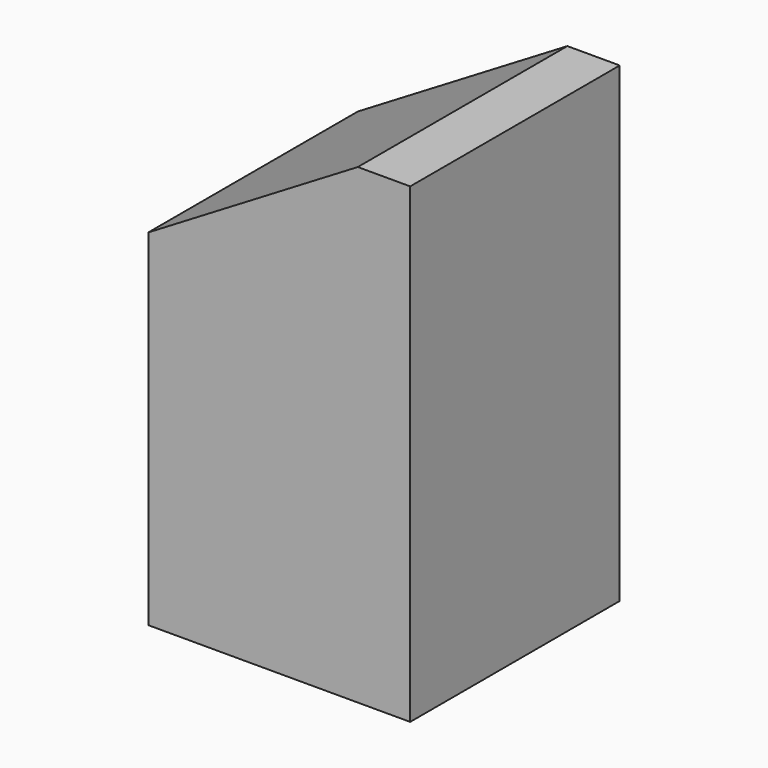
from build123d import *

# Parameters (mm, degrees)
SKETCH019_W     = 16
SKETCH019_H     = 16
PAD011_DEPTH    = 28.8
POCKET008_DEPTH = 16
PAD138_DEPTH    = 16


with BuildPart() as part:
    # Sketch019 (on Face64 of Binder007) → Pad011 (new body)
    with BuildSketch(Plane.XY.offset(-28.8)):
        with Locations((-8, 96)):
            Rectangle(SKETCH019_W, SKETCH019_H)
    extrude(amount=PAD011_DEPTH)

    # Sketch020 (on Face3 of Pad011) → Pocket008 (cut)
    with BuildSketch(Plane.XZ.offset(-88)):
        Polygon((-16, -9.6), (0, 0), (-16, 0), align=None)
    extrude(amount=-POCKET008_DEPTH, mode=Mode.SUBTRACT)

    # Sketch140 (on Face6 of Pocket008) → Pad138 (join)
    with BuildSketch(Plane.XZ.offset(-88)):
        Polygon((0, 0), (-3.2, 0), (-16, -7.68), (-16, -10.88), (-3.2, -3.2), (0, -3.2), align=None)
    extrude(amount=-PAD138_DEPTH)


solid = part.part
